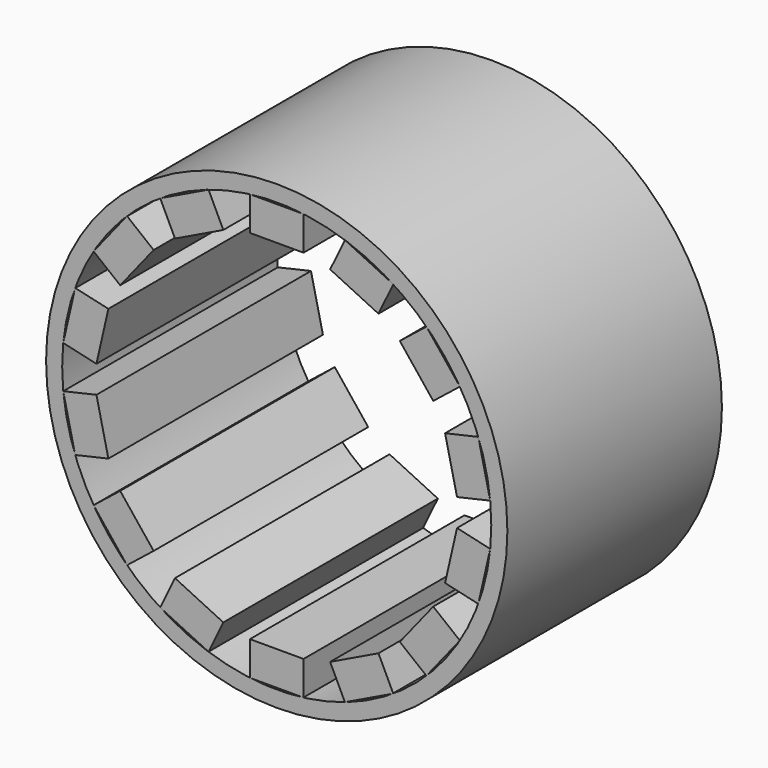
from build123d import *

# Parameters (mm, degrees)
F1_DEPTH = 25
F3_COUNT = 14
F4_R     = 43
F4_R_2   = 40
F5_DEPTH = 25


with BuildPart() as f1:
    # F0 (on Front) → F1 (new body, symmetric)
    with BuildSketch(Plane.XZ):
        Polygon((5, 39.68627), (-5, 39.68627), (-5, 33.33627), (4.199975, 33.33627), align=None)
        Polygon((5, 33.33627), (5, 39.68627), (4.199975, 33.33627), align=None)
    extrude(amount=F1_DEPTH, both=True)


with BuildPart() as f3_1:
    # F3: instance of F1
    add(f1.part.rotate(Axis((0, -56.618929, 0), (0, -1, 0)), 1 * 360 / F3_COUNT))


with BuildPart() as f3_2:
    # F3: instance of F1
    add(f1.part.rotate(Axis((0, -56.618929, 0), (0, -1, 0)), 2 * 360 / F3_COUNT))


with BuildPart() as f3_3:
    # F3: instance of F1
    add(f1.part.rotate(Axis((0, -56.618929, 0), (0, -1, 0)), 3 * 360 / F3_COUNT))


with BuildPart() as f3_4:
    # F3: instance of F1
    add(f1.part.rotate(Axis((0, -56.618929, 0), (0, -1, 0)), 4 * 360 / F3_COUNT))


with BuildPart() as f3_5:
    # F3: instance of F1
    add(f1.part.rotate(Axis((0, -56.618929, 0), (0, -1, 0)), 5 * 360 / F3_COUNT))


with BuildPart() as f3_6:
    # F3: instance of F1
    add(f1.part.rotate(Axis((0, -56.618929, 0), (0, -1, 0)), 6 * 360 / F3_COUNT))


with BuildPart() as f3_7:
    # F3: instance of F1
    add(f1.part.rotate(Axis((0, -56.618929, 0), (0, -1, 0)), 7 * 360 / F3_COUNT))


with BuildPart() as f3_8:
    # F3: instance of F1
    add(f1.part.rotate(Axis((0, -56.618929, 0), (0, -1, 0)), 8 * 360 / F3_COUNT))


with BuildPart() as f3_9:
    # F3: instance of F1
    add(f1.part.rotate(Axis((0, -56.618929, 0), (0, -1, 0)), 9 * 360 / F3_COUNT))


with BuildPart() as f3_10:
    # F3: instance of F1
    add(f1.part.rotate(Axis((0, -56.618929, 0), (0, -1, 0)), 10 * 360 / F3_COUNT))


with BuildPart() as f3_11:
    # F3: instance of F1
    add(f1.part.rotate(Axis((0, -56.618929, 0), (0, -1, 0)), 11 * 360 / F3_COUNT))


with BuildPart() as f3_12:
    # F3: instance of F1
    add(f1.part.rotate(Axis((0, -56.618929, 0), (0, -1, 0)), 12 * 360 / F3_COUNT))


with BuildPart() as f3_13:
    # F3: instance of F1
    add(f1.part.rotate(Axis((0, -56.618929, 0), (0, -1, 0)), 13 * 360 / F3_COUNT))


with BuildPart() as f5:
    # F4 (on Front) → F5 (new body, symmetric)
    with BuildSketch(Plane.XZ):
        Circle(F4_R)
        Circle(F4_R_2, mode=Mode.SUBTRACT)
    extrude(amount=F5_DEPTH, both=True)


solid = Compound([f1.part, f3_1.part, f3_2.part, f3_3.part, f3_4.part, f3_5.part, f3_6.part, f3_7.part, f3_8.part, f3_9.part, f3_10.part, f3_11.part, f3_12.part, f3_13.part, f5.part])
